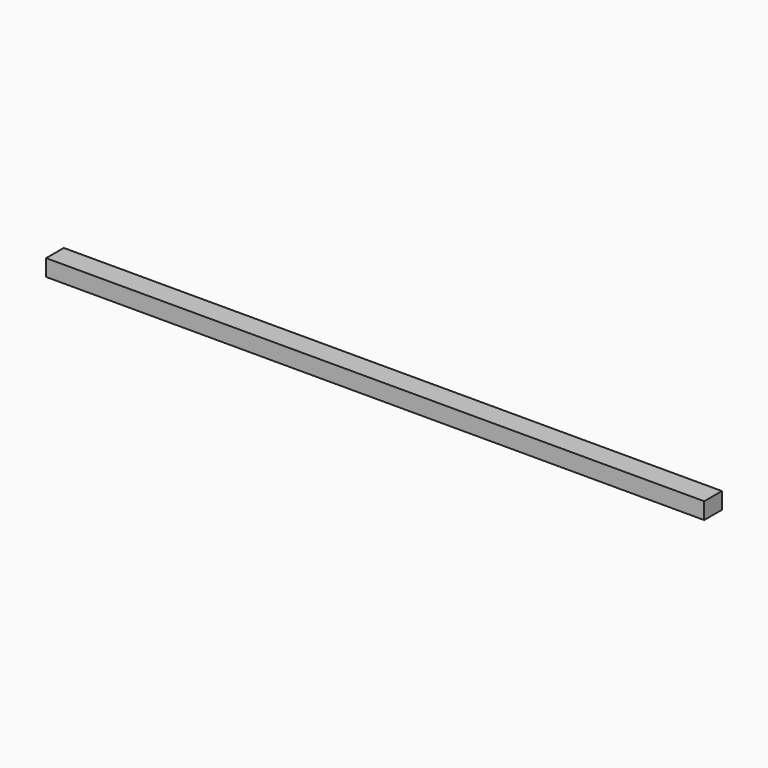
from build123d import *

# Parameters (mm, degrees)
BOX_W     = 1428
BOX_H     = 48
BOX_DEPTH = 36


with BuildPart() as part:
    # Box → Box (new body)
    with BuildSketch(Plane.XY):
        with Locations((714, 24)):
            Rectangle(BOX_W, BOX_H)
    extrude(amount=BOX_DEPTH)


solid = part.part
